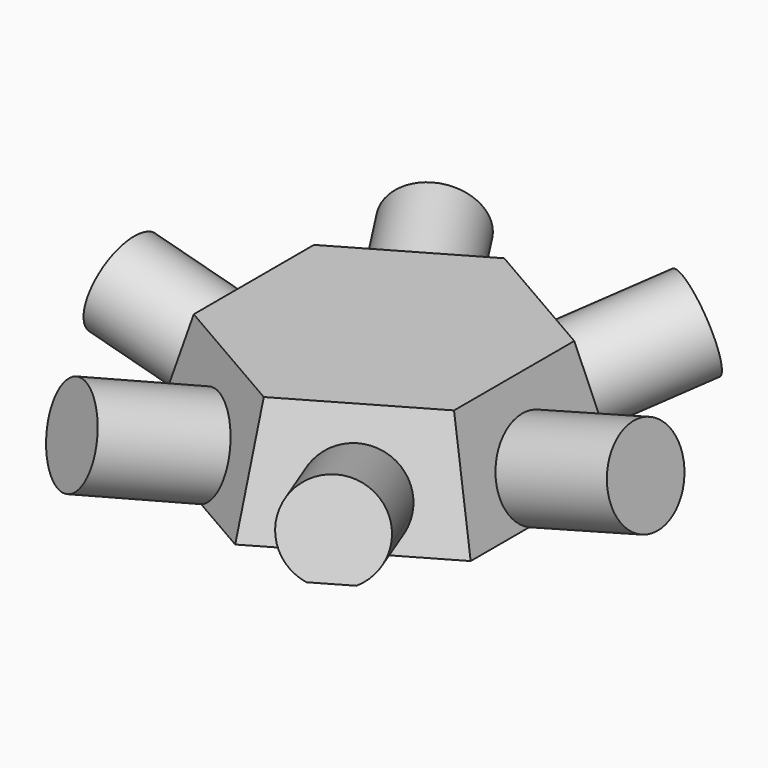
from build123d import *

# Parameters (mm, degrees)
F1_DEPTH  = 25
F1_TAPER  = 15
F2_R      = 10
F3_DEPTH  = 25
F8_DEPTH  = 25
F9_R      = 10
F10_DEPTH = 25
F11_R     = 10
F12_DEPTH = 25
F13_R     = 10
F5_DEPTH  = 25
F6_R      = 10
F7_DEPTH  = 25


with BuildPart() as f1:
    # F0 (on Top) → F1 (new body)
    with BuildSketch(Plane.XY):
        Polygon((-34.9069200456, 20.1535196849), (-34.9069200456, -20.1535196849), (0, -40.3070393698), (34.9069200456, -20.1535196849), (34.9069200456, 20.1535196849), (0, 40.3070393698), align=None)
    extrude(amount=F1_DEPTH, taper=F1_TAPER)

    # F2 (on face) → F3 (join)
    with BuildSketch(Plane(origin=(-16.2842998932, -28.2052347808, 8.7267300114), x_dir=(0.8756408079, -0.4613836487, 0.1427525977), z_dir=(-0.4829629131, -0.8365163037, 0.2588190451))):
        Circle(F2_R)
    extrude(amount=F3_DEPTH)

    # F4 (on face) → F8 (join)
    with BuildSketch(Plane(origin=(16.2842998932, -28.2052347808, 8.7267300114), x_dir=(0.8756408079, 0.4613836487, -0.1427525977), z_dir=(0.4829629131, -0.8365163037, 0.2588190451))):
        with BuildLine():
            ThreePointArc((5.5749073304, -8.3018316206), (8.8246550444, -4.7037711836), (10, 0))
            ThreePointArc((10, 0), (-5.9563004457, 8.0325889351), (-2.9044970001, -9.5689026109))
            Line((-2.9044970001, -9.5689026109), (5.5749073304, -8.3018316206))
        make_face()
    extrude(amount=F8_DEPTH)

    # F9 (on face) → F10 (join)
    with BuildSketch(Plane(origin=(32.5685997865, 0, 8.7267300114), x_dir=(0, 1, 0), z_dir=(0.9659258263, 0, 0.2588190451))):
        Circle(F9_R)
    extrude(amount=F10_DEPTH)

    # F11 (on face) → F12 (join)
    with BuildSketch(Plane(origin=(16.2842998932, 28.2052347808, 8.7267300114), x_dir=(-0.8756408079, 0.4613836487, 0.1427525977), z_dir=(0.4829629131, 0.8365163037, 0.2588190451))):
        Circle(F11_R)
    extrude(amount=F12_DEPTH)

    # F13 (on face) → F5 (join)
    with BuildSketch(Plane(origin=(-16.2842998932, 28.2052347808, 8.7267300114), x_dir=(-0.8756408079, -0.4613836487, -0.1427525977), z_dir=(-0.4829629131, 0.8365163037, 0.2588190451))):
        Circle(F13_R)
    extrude(amount=F5_DEPTH)

    # F6 (on face) → F7 (join)
    with BuildSketch(Plane(origin=(-32.5685997865, 0, 8.7267300114), x_dir=(0, -1, 0), z_dir=(-0.9659258263, 0, 0.2588190451))):
        Circle(F6_R)
    extrude(amount=F7_DEPTH)


solid = f1.part
